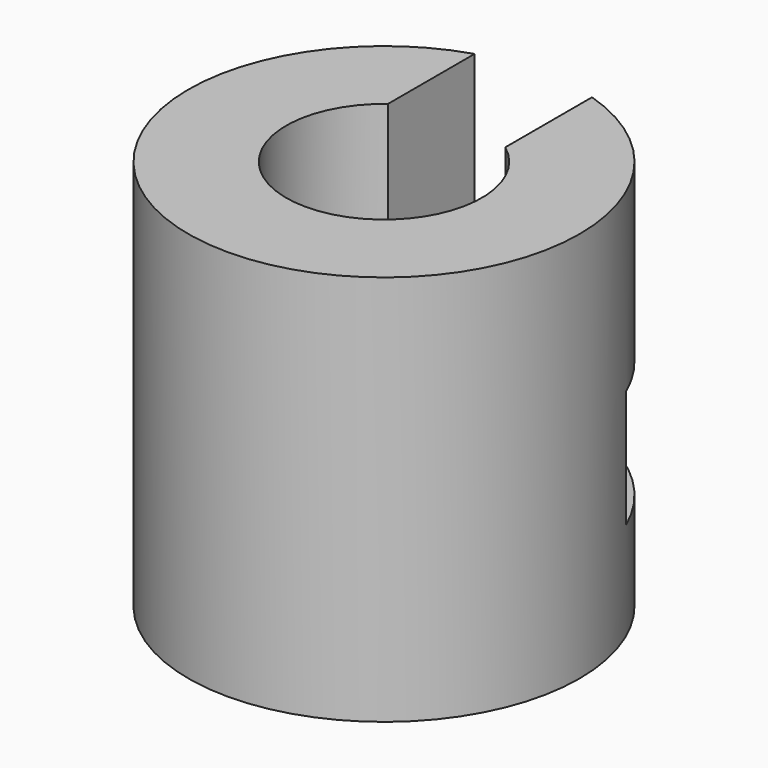
from build123d import *

# Parameters (mm, degrees)
F0_R     = 12.7
F1_DEPTH = 25.4
F2_R     = 6.35
F5_DEPTH = 19.05
F6_W     = 7.035027858
F6_H     = 7.62
F7_DEPTH = 25.4
F8_DEPTH = 2.54


with BuildPart() as f1:
    # F0 (on Top) → F1 (new body)
    with BuildSketch(Plane.XY):
        Circle(F0_R)
    extrude(amount=F1_DEPTH)

    # F2 (on face) + F4 (on face) + F3 (on face) → F5 (cut)
    with BuildSketch(Plane.XY.offset(25.4)):
        Circle(F2_R)
    with BuildSketch(Plane.XY.offset(25.4)):
        with BuildLine():
            Line((0, 12.7), (0, 6.35))
            ThreePointArc((0, 6.35), (2.0080463142, 6.0241389426), (3.81, 5.08))
            Line((3.81, 5.08), (3.81, 12.7))
            Line((3.81, 12.7), (0, 12.7))
        make_face()
    with BuildSketch(Plane.XY.offset(25.4)):
        with BuildLine():
            ThreePointArc((-3.81, 5.08), (-2.0080463142, 6.0241389426), (0, 6.35))
            Line((0, 6.35), (0, 12.7))
            Line((0, 12.7), (-3.81, 12.7))
            Line((-3.81, 12.7), (-3.81, 5.08))
        make_face()
    extrude(amount=-F5_DEPTH, mode=Mode.SUBTRACT)

    # F6 (on face) → F7 (cut)
    with BuildSketch(Plane(origin=(3.81, 0, 0), x_dir=(0, -1, 0), z_dir=(-1, 0, 0))):
        with Locations((-8.597513929, 10.16)):
            Rectangle(F6_W, F6_H)
    extrude(amount=-F7_DEPTH, mode=Mode.SUBTRACT)

    # F8 (cut): a face of the model
    f8_faces = [f1.faces().sort_by_distance(p)[0] for p in [
        (7.7248711326, 5.08, 10.16),
    ]]
    extrude(f8_faces, amount=-F8_DEPTH, mode=Mode.SUBTRACT)


solid = f1.part
